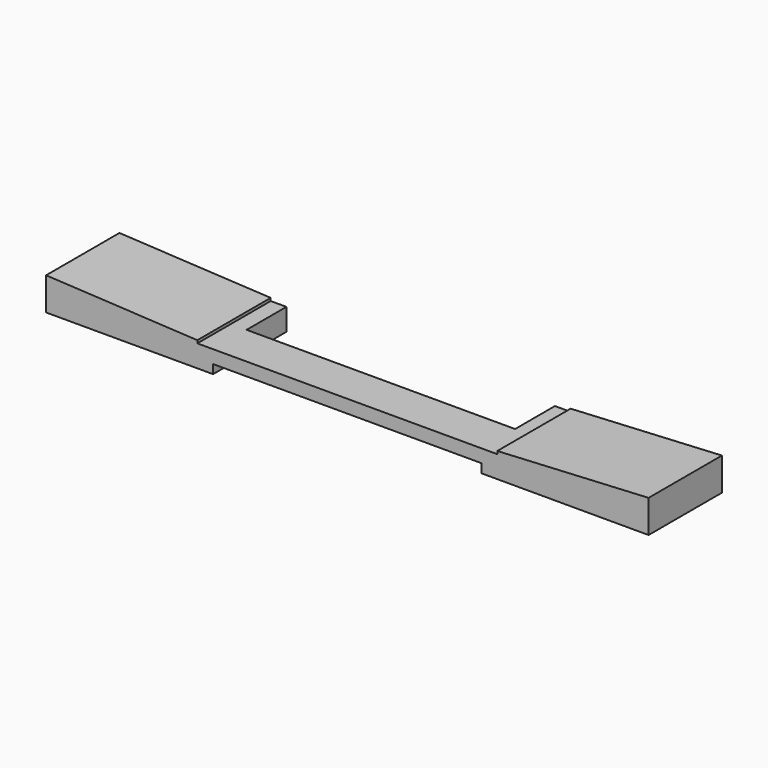
from build123d import *

# Parameters (mm, degrees)
F0_W     = 292.1
F0_H     = 44.45
F1_DEPTH = 6.35
F2_W     = 130.175
F2_H     = 24.13
F3_DEPTH = 6.351
F4_W     = 80.9625
F4_H     = 44.45
F5_DEPTH = 4.318
F7_DEPTH = 44.45


with BuildPart() as f1:
    # F0 (on Top) → F1 (new body)
    with BuildSketch(Plane.XY):
        Rectangle(F0_W, F0_H)
    extrude(amount=F1_DEPTH)

    # F2 (on face) → F3 (cut, through all)
    with BuildSketch(Plane.XY.offset(6.35)):
        with Locations((0, 10.16)):
            Rectangle(F2_W, F2_H)
    extrude(amount=-F3_DEPTH, mode=Mode.SUBTRACT)

    # F4 (on face) → F5 (join)
    with BuildSketch(Plane(origin=(0, 0, 0), x_dir=(1, 0, 0), z_dir=(0, 0, -1))):
        with Locations((-105.56875, 0)):
            Rectangle(F4_W, F4_H)
        with Locations((105.56875, 0)):
            Rectangle(F4_W, F4_H)
    extrude(amount=F5_DEPTH)

    # F6 (on face) → F7 (join, through all)
    with BuildSketch(Plane.XZ.offset(22.225)):
        Polygon((-146.05, 11.557), (-146.05, 6.35), (-72.7075, 6.35), (-72.7075, 7.713282), align=None)
        Polygon((72.7075, 7.713282), (72.7075, 6.35), (146.05, 6.35), (146.05, 11.557), align=None)
    extrude(amount=-F7_DEPTH)


solid = f1.part
